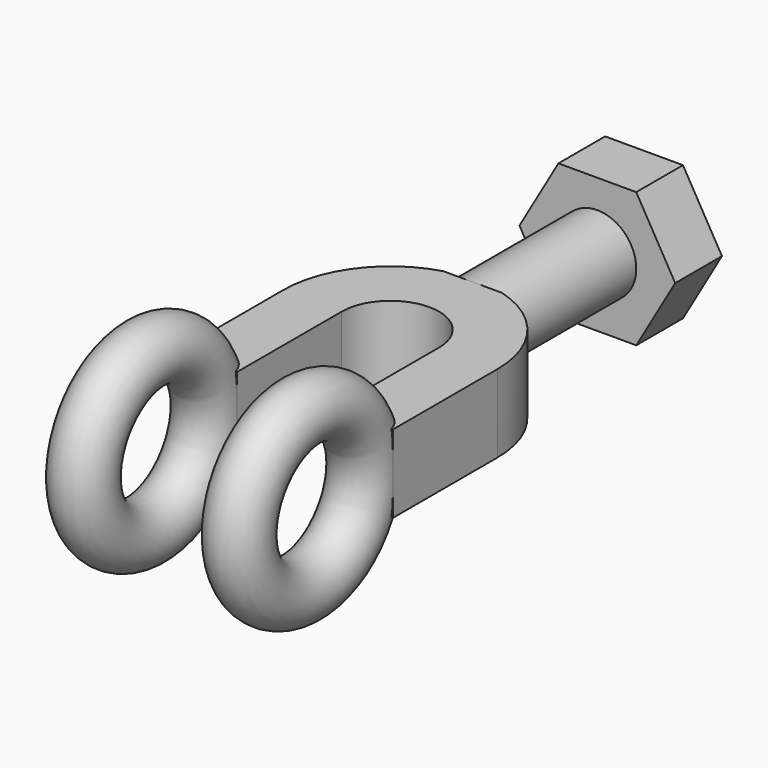
from build123d import *

# Parameters (mm, degrees)
F0_R          = 4.7625
F3_DEPTH      = 6.35
F3_DEPTH_BACK = 6.35
F4_R          = 6.35
F5_DEPTH      = 25.4
F7_DEPTH      = 9.525


with BuildPart() as f1:
    # F0 (on Front) → F1 (revolve)
    with BuildSketch(Plane.XZ):
        with Locations((0, 12.7)):
            Circle(F0_R)
        with Locations((25.4, 12.7)):
            Circle(F0_R)
    revolve(axis=Axis((12.7, 0, 0), (1, 0, 0)))

    # F2 (on Top) → F3 (join, two sides)
    with BuildSketch(Plane.XY) as f3_sk:
        with BuildLine():
            Line((-4.7625, 33.999479), (-4.7625, 12.7))
            Line((-4.7625, 12.7), (4.7625, 12.7))
            Line((4.7625, 12.7), (4.7625, 34.009044))
            ThreePointArc((4.7625, 34.009044), (12.7, 41.946544), (20.6375, 34.009044))
            Line((20.6375, 34.009044), (20.6375, 12.7))
            Line((20.6375, 12.7), (30.1625, 12.7))
            Line((30.1625, 12.7), (30.1625, 33.999479))
            ThreePointArc((30.1625, 33.999479), (26.630256, 44.529763), (17.4625, 50.8))
            Line((17.4625, 50.8), (7.9375, 50.8))
            ThreePointArc((7.9375, 50.8), (-1.230256, 44.529763), (-4.7625, 33.999479))
        make_face()
    extrude(amount=F3_DEPTH)
    extrude(f3_sk.sketch, amount=-F3_DEPTH_BACK)

    # F4 (on face) → F5 (join)
    with BuildSketch(Plane(origin=(0, 50.8, 0), x_dir=(-1, 0, 0), z_dir=(0, 1, 0))):
        with Locations((-12.7, 0)):
            Circle(F4_R)
    extrude(amount=F5_DEPTH)

    # F6 (on face) → F7 (join)
    with BuildSketch(Plane(origin=(0, 76.2, 0), x_dir=(-1, 0, 0), z_dir=(0, 1, 0))):
        Polygon((-6.35, 10.998523), (-19.05, 10.998523), (-25.4, 0), (-19.05, -10.998523), (-6.35, -10.998523), (0, 0), align=None)
    extrude(amount=F7_DEPTH)


solid = f1.part
